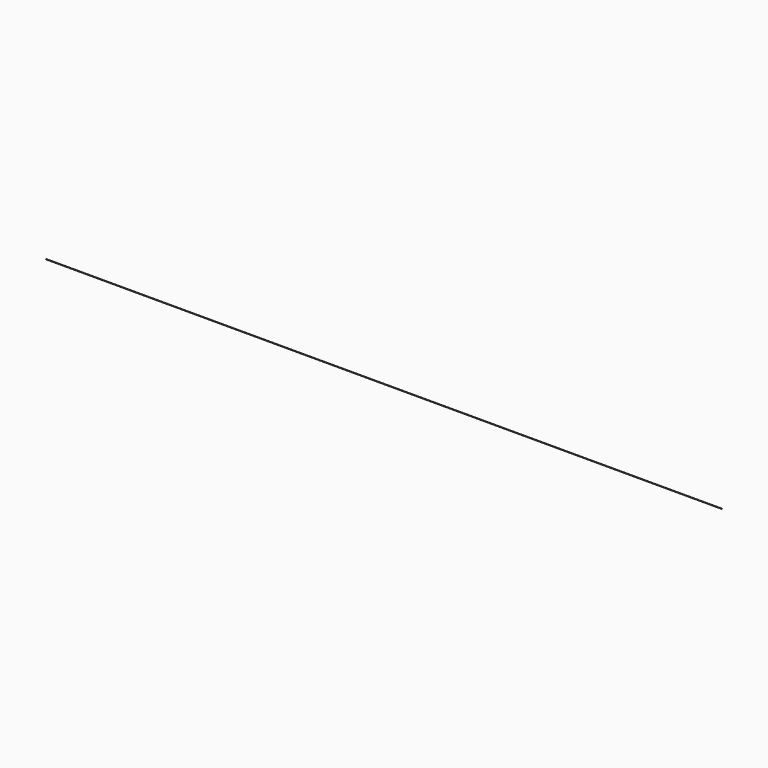
from build123d import *

# Parameters (mm, degrees)
BOX_W     = 32004
BOX_H     = 10
BOX_DEPTH = 10


with BuildPart() as part:
    # Box → Box (new body)
    with BuildSketch(Plane.XY):
        with Locations((16002, 5)):
            Rectangle(BOX_W, BOX_H)
    extrude(amount=BOX_DEPTH)


solid = part.part
